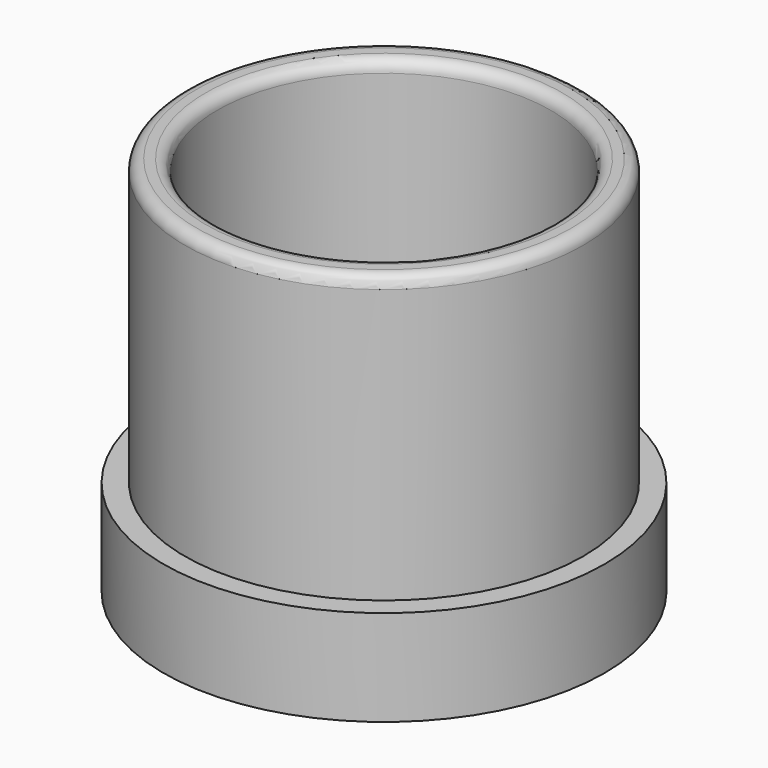
from build123d import *

# Parameters (mm, degrees)
F0_R     = 17.25
F0_R_2   = 14.45
F1_DEPTH = 33
F0_R_3   = 19.1
F2_DEPTH = 8.3
F3_R     = 1


with BuildPart() as f1:
    # F0 (on Top) → F1 (new body)
    with BuildSketch(Plane.XY):
        Circle(F0_R)
        Circle(F0_R_2, mode=Mode.SUBTRACT)
    extrude(amount=F1_DEPTH)

    # F0 (on Top) → F2 (join)
    with BuildSketch(Plane.XY):
        Circle(F0_R_3)
        Circle(F0_R, mode=Mode.SUBTRACT)
    extrude(amount=F2_DEPTH)

    # F3
    f3_edges = [f1.edges().sort_by_distance(p)[0] for p in [
        (-17.25, 0, 33),
        (-14.45, 0, 33),
    ]]
    fillet(f3_edges, radius=F3_R)


solid = f1.part
